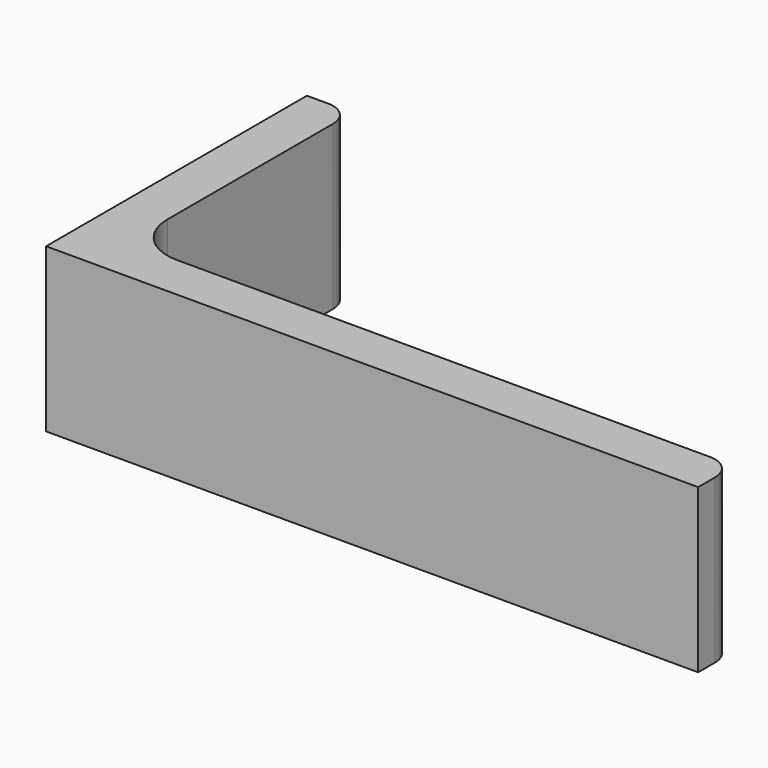
from build123d import *

# Parameters (mm, degrees)
EXTRUDE_DEPTH = 50


with BuildPart() as part:
    # Sketch → Extrude (new body)
    with BuildSketch(Plane.XY):
        with BuildLine():
            Line((0, 0), (200, 0))
            Line((200, 0), (200, 6.5))
            ThreePointArc((200, 6.5), (197.803301, 11.803301), (192.5, 14))
            Line((192.5, 14), (29, 14))
            ThreePointArc((14, 29), (18.393398, 18.393398), (29, 14))
            Line((14, 92.5), (14, 29))
            ThreePointArc((14, 92.5), (11.803301, 97.803301), (6.5, 100))
            Line((0, 100), (6.5, 100))
            Line((0, 0), (0, 100))
        make_face()
    extrude(amount=EXTRUDE_DEPTH)


solid = part.part
